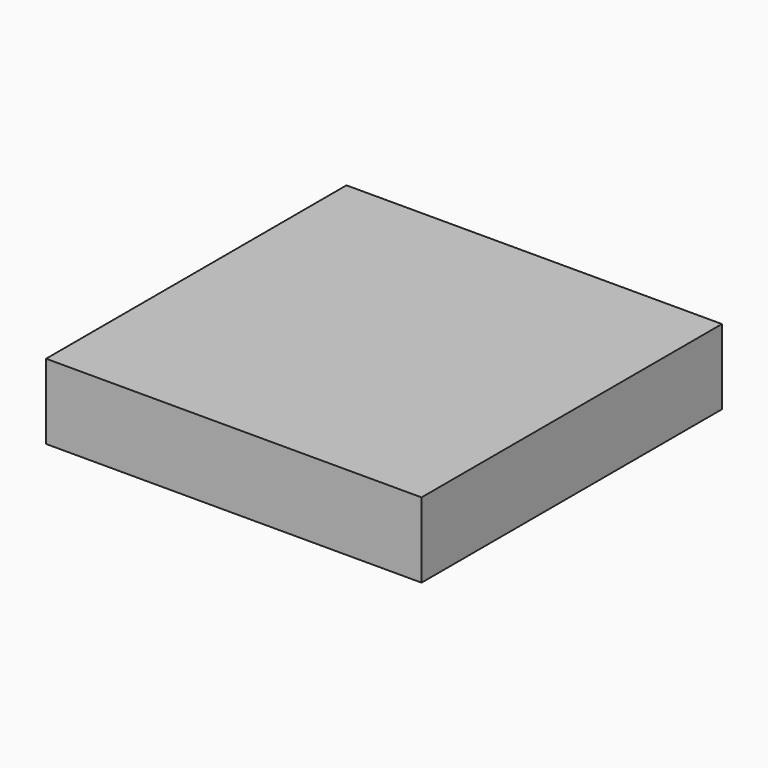
from build123d import *

# Parameters (mm, degrees)
SKETCH_W      = 300
SKETCH_H      = 300
EXTRUDE_DEPTH = 60


with BuildPart() as part:
    # Sketch → Extrude (new body)
    with BuildSketch(Plane.XY):
        with Locations((28.192111, 43.631701)):
            Rectangle(SKETCH_W, SKETCH_H)
    extrude(amount=EXTRUDE_DEPTH)


solid = part.part
